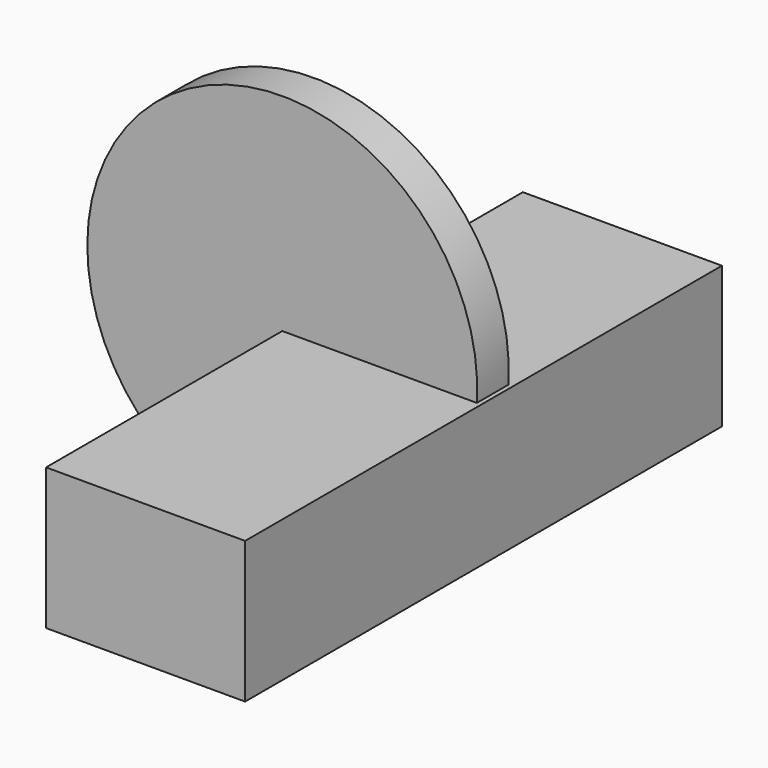
from build123d import *

# Parameters (mm, degrees)
F0_R     = 21.336959
F1_DEPTH = 4.319876
F2_W     = 21.784391
F2_H     = 65.22616
F3_DEPTH = 15.485907


with BuildPart() as f1:
    # F0 (on Front) → F1 (new body)
    with BuildSketch(Plane.XZ):
        with Locations((0, 16.800325)):
            Circle(F0_R)
    extrude(amount=F1_DEPTH)

    # F2 (on Top) → F3 (join)
    with BuildSketch(Plane.XY):
        with Locations((10.892195, -4.017372)):
            Rectangle(F2_W, F2_H)
        with Locations((10.892195, -4.017372)):
            Rectangle(F2_W, F2_H)
    extrude(amount=F3_DEPTH)


solid = f1.part
